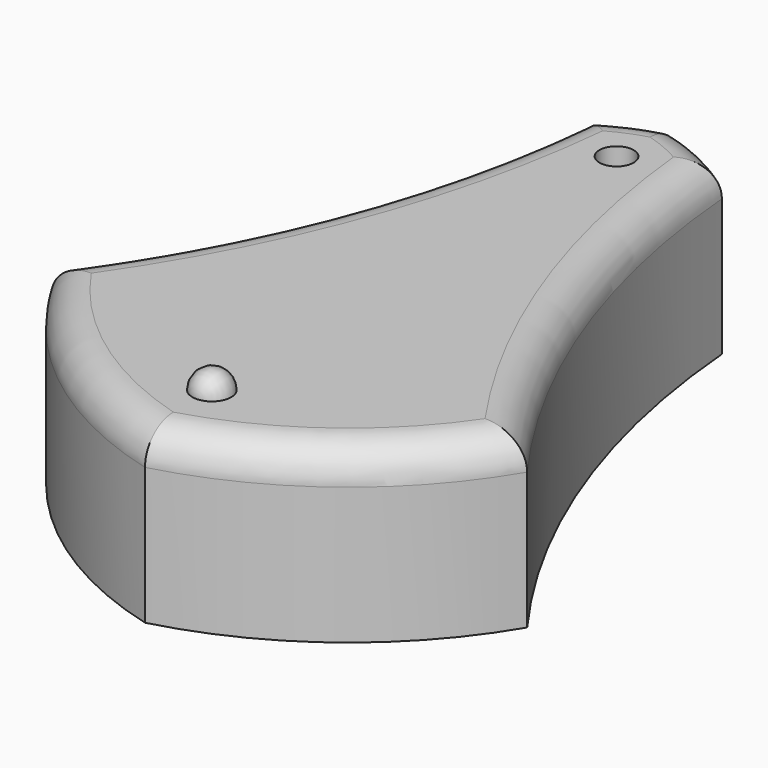
from build123d import *

# Parameters (mm, degrees)
F1_DEPTH = 25.4
F2_R     = 5.08
F6_D     = 5.08


with BuildPart() as f1:
    # F0 (on Top) → F1 (new body)
    with BuildSketch(Plane.XY):
        with BuildLine():
            ThreePointArc((10.09479, 48.221612), (5.261155, 50.956675), (0, 52.735675))
            ThreePointArc((0, 52.735675), (-5.261155, 50.956675), (-10.09479, 48.221612))
            ThreePointArc((-10.09479, 48.221612), (-18.035935, 12.598154), (-35.362784, -19.524625))
            ThreePointArc((-35.362784, -19.524625), (-20.319593, -36.391333), (0, -46.285652))
            ThreePointArc((0, -46.285652), (20.319593, -36.391333), (35.362784, -19.524625))
            ThreePointArc((35.362784, -19.524625), (18.035935, 12.598154), (10.09479, 48.221612))
        make_face()
    extrude(amount=F1_DEPTH)

    # F2
    f2_edges = [f1.edges().sort_by_distance(p)[0] for p in [
        (-20.319593, -36.391333, 25.4),
        (18.035935, 12.598154, 25.4),
        (5.261155, 50.956675, 25.4),
        (-5.261155, 50.956675, 25.4),
        (-18.035935, 12.598154, 25.4),
        (20.319593, -36.391333, 25.4),
    ]]
    fillet(f2_edges, radius=F2_R)

    # F4 (on face) → F5 (revolve)
    with BuildSketch(Plane.XY.offset(25.4)):
        with BuildLine():
            Line((0, -30.996427), (0, -36.764964))
            ThreePointArc((0, -36.764964), (2.884268, -33.880696), (0, -30.996427))
        make_face()
    revolve(axis=Axis((0, -33.880696, 25.4), (0, -1, 0)))

    # F6 (through all)
    with Locations(Plane.XY.offset(25.4)):
        with Locations((0, 41.271076)):
            Hole(F6_D / 2)


solid = f1.part
